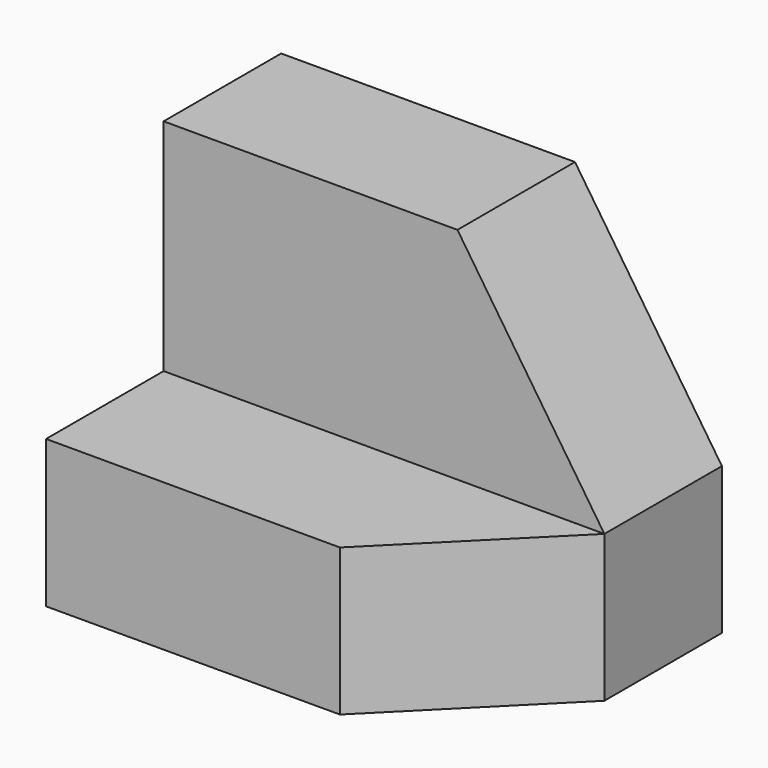
from build123d import *

# Parameters (mm, degrees)
F3_DEPTH = 12.7
F5_DEPTH = 12.7
F7_DEPTH = 12.7433647379


with BuildPart() as f3:
    # F0 (on Front) → F3 (new body)
    with BuildSketch(Plane.XZ):
        Polygon((-44.2579913414, 61.4126058817), (-69.6579913414, 61.4126058817), (-69.6579913414, 29.6626058817), (-31.5580148949, 29.7049706196), (-31.5580148949, 42.4049706196), align=None)
    extrude(amount=F3_DEPTH)

    # F4 (on face) → F5 (join)
    with BuildSketch(Plane.XZ.offset(12.7)):
        Polygon((-69.6579913414, 42.4049706196), (-69.6579913414, 29.6626058817), (-31.5580148949, 29.7049706196), (-31.5580148949, 42.4049706196), align=None)
    extrude(amount=F5_DEPTH)

    # F6 (on face) → F7 (cut, through all)
    with BuildSketch(Plane.XY.offset(42.4049706196)):
        Polygon((-31.5580148949, -25.4), (-31.5580148949, -12.7), (-44.2579913414, -25.4), align=None)
    extrude(amount=-F7_DEPTH, mode=Mode.SUBTRACT)


solid = f3.part
